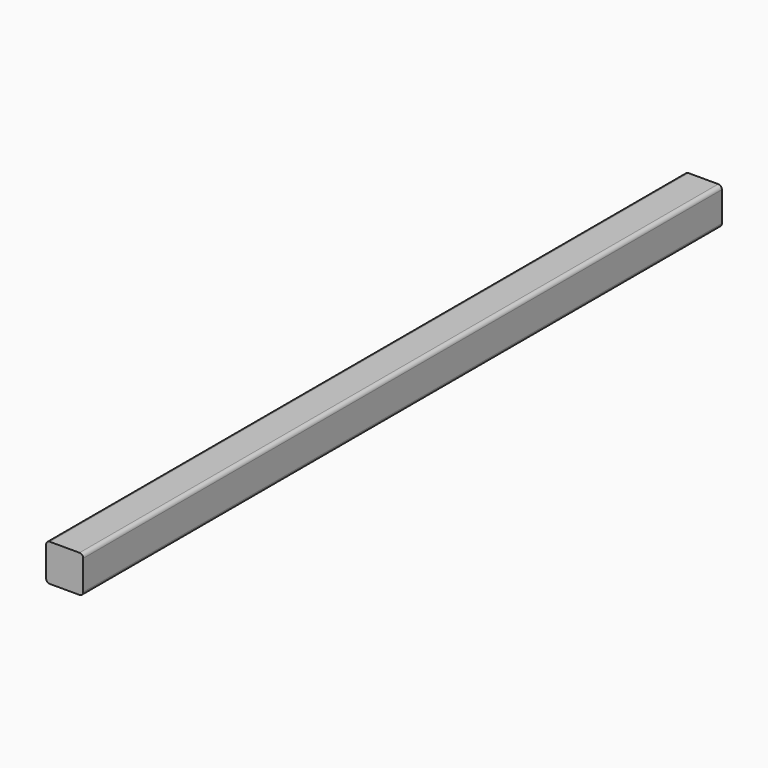
from build123d import *

# Parameters (mm, degrees)
SKETCH001_W  = 100
SKETCH001_H  = 100
PAD001_DEPTH = 1075
FILLET_R     = 10
FILLET001_R  = 10


with BuildPart() as part:
    # Sketch001 → Pad001 (new body, symmetric)
    with BuildSketch(Plane.XZ):
        with Locations((-100, -100)):
            Rectangle(SKETCH001_W, SKETCH001_H)
    extrude(amount=PAD001_DEPTH, both=True)

    # Fillet
    fillet_edges = [part.edges().sort_by_distance(p)[0] for p in [
        (-50, 0, -50),
    ]]
    fillet(fillet_edges, radius=FILLET_R)

    # Fillet001
    fillet001_edges = [part.edges().sort_by_distance(p)[0] for p in [
        (-150, 0, -150),
        (-50, 0, -150),
        (-150, 0, -50),
    ]]
    fillet(fillet001_edges, radius=FILLET001_R)


with BuildPart() as part_1:
    # Body002 placement: moved
    add(part.part.moved(Location((200, 0, 0))))


solid = part_1.part
